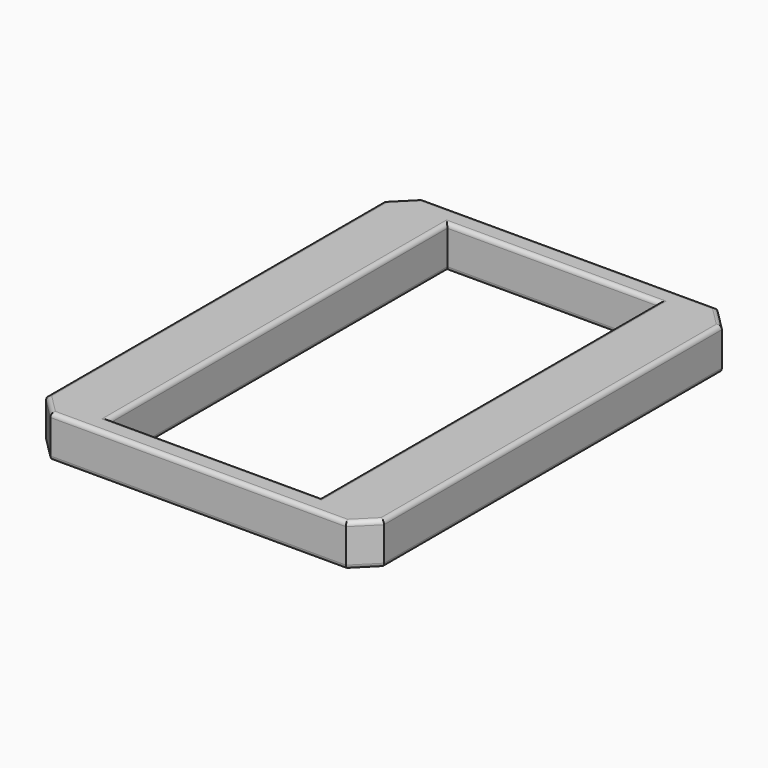
from build123d import *

# Parameters (mm, degrees)
F1_W     = 16
F1_H     = 22
F1_W_2   = 10
F1_H_2   = 20
F2_DEPTH = 2
F3_SIZE2 = 1
F3_SIZE  = 1
F4_SIZE2 = 1
F4_SIZE  = 1
F5_R     = 0.2


with BuildPart() as f2:
    # F1 (on face) → F2 (new body)
    with BuildSketch(Plane.XY):
        Rectangle(F1_W, F1_H)
        Rectangle(F1_W_2, F1_H_2, mode=Mode.SUBTRACT)
    extrude(amount=F2_DEPTH)

    # F3
    f3_edges = [f2.edges().sort_by_distance(p)[0] for p in [
        (-8, -11, 1),
    ]]
    chamfer(f3_edges, length=F3_SIZE, length2=F3_SIZE2)

    # F4
    f4_edges = [f2.edges().sort_by_distance(p)[0] for p in [
        (8, -11, 1),
        (8, 11, 1),
        (-8, 11, 1),
    ]]
    chamfer(f4_edges, length=F4_SIZE, length2=F4_SIZE2)

    # F5
    f5_edges = [f2.edges().sort_by_distance(p)[0] for p in [
        (-8, 0, 2),
        (-7.5, 10.5, 2),
        (-7.5, -10.5, 2),
        (0, 11, 2),
        (0, -11, 2),
        (7.5, 10.5, 2),
        (7.5, -10.5, 2),
        (8, 0, 2),
        (-5, 0, 2),
        (0, 10, 2),
        (5, 0, 2),
        (0, -10, 2),
        (-8, 0, 0),
        (-7.5, 10.5, 0),
        (-7.5, -10.5, 0),
        (0, 11, 0),
        (0, -11, 0),
        (7.5, 10.5, 0),
        (7.5, -10.5, 0),
        (8, 0, 0),
        (-5, 0, 0),
        (0, 10, 0),
        (5, 0, 0),
        (0, -10, 0),
    ]]
    fillet(f5_edges, radius=F5_R)


solid = f2.part
